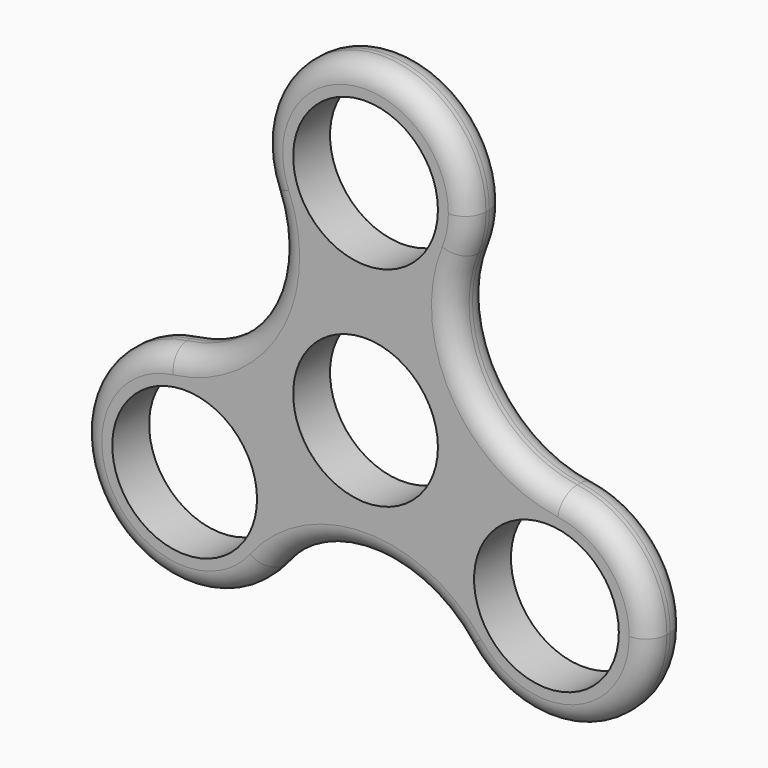
from build123d import *

# Parameters (mm, degrees)
F0_R     = 11
F1_DEPTH = 3.5
F2_R     = 3.175


with BuildPart() as f1:
    # F0 (on Front) → F1 (new body, symmetric)
    with BuildSketch(Plane.XZ):
        with BuildLine():
            ThreePointArc((14.597093, 25.801783), (15.468405, 28.719346), (15.7625, 31.75))
            ThreePointArc((15.7625, 31.75), (-3.030654, 47.218405), (-14.597093, 25.801783))
            ThreePointArc((-14.597093, 25.801783), (0, 15.9875), (14.597093, 25.801783))
        make_face()
        with Locations((0, 31.75)):
            Circle(F0_R, mode=Mode.SUBTRACT)
        with BuildLine():
            ThreePointArc((14.597093, 25.801783), (0, 15.9875), (-14.597093, 25.801783))
            ThreePointArc((-14.597093, 25.801783), (-15.740839, 9.087978), (-29.643546, -0.259438))
            ThreePointArc((-29.643546, -0.259438), (-17.137481, -3.994296), (-11.733807, -15.875))
            ThreePointArc((-11.733807, -15.875), (-12.584948, -20.984579), (-15.046453, -25.542344))
            ThreePointArc((-15.046453, -25.542344), (0, -18.175955), (15.046453, -25.542344))
            ThreePointArc((15.046453, -25.542344), (13.845581, -7.99375), (29.643546, -0.259438))
            ThreePointArc((29.643546, -0.259438), (15.740839, 9.087978), (14.597093, 25.801783))
        make_face()
        Circle(F0_R, mode=Mode.SUBTRACT)
        with BuildLine():
            ThreePointArc((-11.733807, -15.875), (-17.137481, -3.994296), (-29.643546, -0.259438))
            ThreePointArc((-29.643546, -0.259438), (-41.147032, -23.75625), (-15.046453, -25.542344))
            ThreePointArc((-15.046453, -25.542344), (-12.584948, -20.984579), (-11.733807, -15.875))
        make_face()
        with Locations((-27.496307, -15.875)):
            Circle(F0_R, mode=Mode.SUBTRACT)
        with BuildLine():
            ThreePointArc((43.258807, -15.875), (39.377011, -5.516174), (29.643546, -0.259438))
            ThreePointArc((29.643546, -0.259438), (13.845581, -7.99375), (15.046453, -25.542344))
            ThreePointArc((15.046453, -25.542344), (32.605885, -30.786359), (43.258807, -15.875))
        make_face()
        with Locations((27.496307, -15.875)):
            Circle(F0_R, mode=Mode.SUBTRACT)
    extrude(amount=F1_DEPTH, both=True)

    # F2
    f2_edges = [f1.edges().sort_by_distance(p)[0] for p in [
        (-41.147032, -3.5, -23.75625),
        (-41.147032, 3.5, -23.75625),
    ]]
    fillet(f2_edges, radius=F2_R)


solid = f1.part
